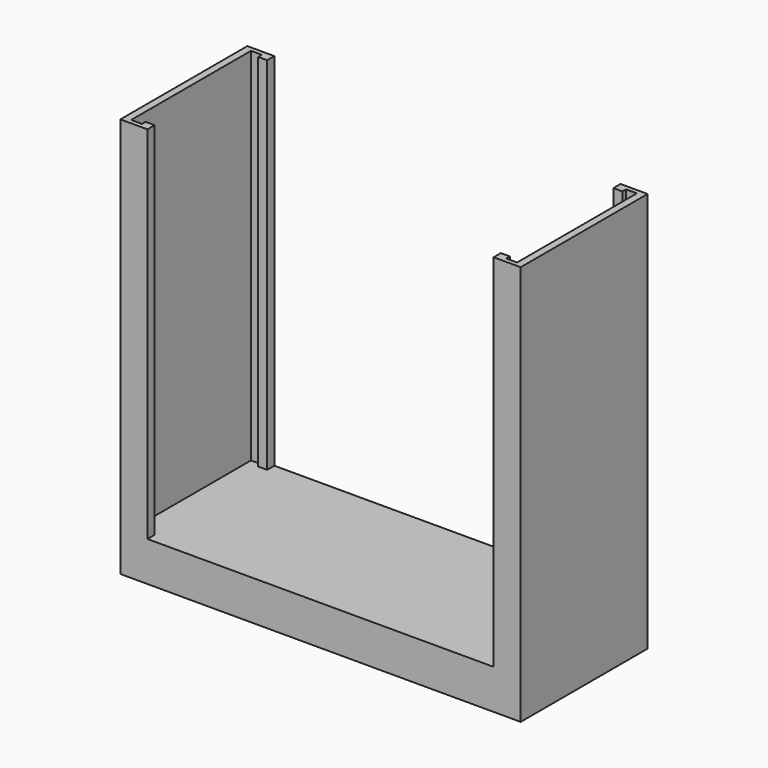
from build123d import *

# Parameters (mm, degrees)
F0_W     = 112.776
F0_H     = 44.704
F1_DEPTH = 11.176
F3_DEPTH = 101.6


with BuildPart() as f1:
    # F0 (on Top) → F1 (new body)
    with BuildSketch(Plane.XY):
        with Locations((-56.388, -22.352)):
            Rectangle(F0_W, F0_H)
    extrude(amount=F1_DEPTH)

    # F2 (on face) → F3 (join)
    with BuildSketch(Plane.XY.offset(11.176)):
        Polygon((0, -44.704), (0, -22.352), (0, 0), (-7.62, 0), (-7.62, -2.54), (-5.08, -2.54), (-5.08, -1.27), (-2.032, -1.27), (-2.032, -22.352), (-2.032, -43.434), (-5.08, -43.434), (-5.08, -42.164), (-7.62, -42.164), (-7.62, -44.704), align=None)
        Polygon((-105.156, -2.54), (-105.156, 0), (-112.776, 0), (-112.776, -22.352), (-112.776, -44.704), (-105.156, -44.704), (-105.156, -42.164), (-107.696, -42.164), (-107.696, -43.434), (-110.744, -43.434), (-110.744, -22.352), (-110.744, -1.27), (-107.696, -1.27), (-107.696, -2.54), align=None)
    extrude(amount=F3_DEPTH)


solid = f1.part
